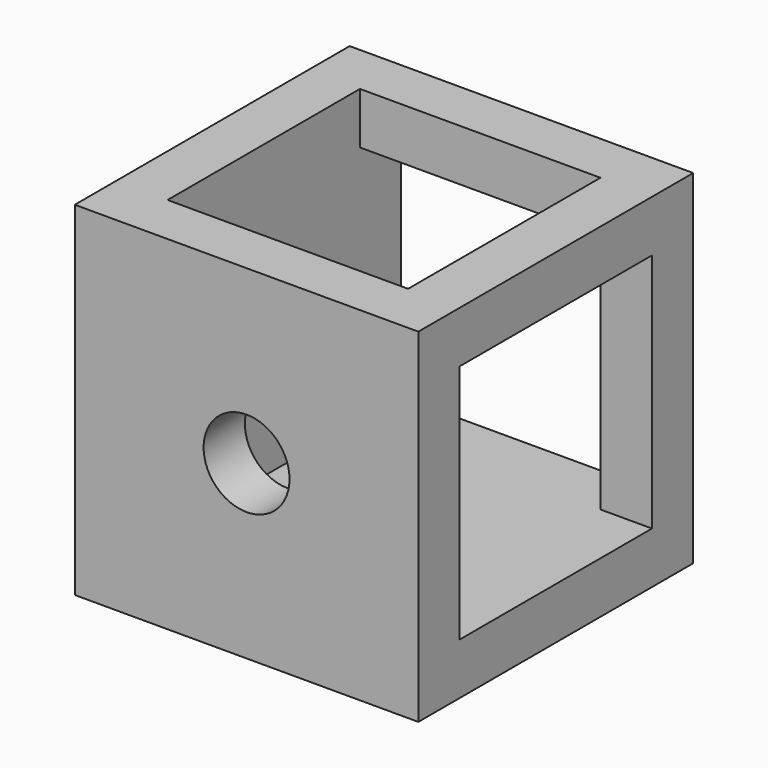
from build123d import *

# Parameters (mm, degrees)
SKETCH040_W     = 20
SKETCH040_H     = 20
PAD016_DEPTH    = 10
SKETCH041_R     = 2.5
HOLE012_DEPTH   = 25
SKETCH042_R     = 2.5
HOLE013_DEPTH   = 25
SKETCH043_R     = 2.5
HOLE014_DEPTH   = 25
SKETCH044_W     = 14
SKETCH044_H     = 14
POCKET012_DEPTH = 17
SKETCH045_W     = 14
SKETCH045_H     = 14
POCKET013_DEPTH = 17
SKETCH046_W     = 14
SKETCH046_H     = 14
POCKET014_DEPTH = 17


with BuildPart() as part:
    # Sketch040 → Pad016 (new body, symmetric)
    with BuildSketch(Plane.XZ):
        Rectangle(SKETCH040_W, SKETCH040_H)
    extrude(amount=PAD016_DEPTH, both=True)

    # Sketch041 (on Face1 of Pad016) → Hole012 (cut)
    with BuildSketch(Plane(origin=(0, 0, 10), x_dir=(-1, 0, 0), z_dir=(0, 0, 1))):
        Circle(SKETCH041_R)
    extrude(amount=-HOLE012_DEPTH, mode=Mode.SUBTRACT)

    # Sketch042 (on Face2 of Hole012) → Hole013 (cut)
    with BuildSketch(Plane(origin=(10, 0, 0), x_dir=(0, 0, 1), z_dir=(1, 0, 0))):
        Circle(SKETCH042_R)
    extrude(amount=-HOLE013_DEPTH, mode=Mode.SUBTRACT)

    # Sketch043 (on Face3 of Hole012) → Hole014 (cut)
    with BuildSketch(Plane(origin=(0, 10, 0), x_dir=(1, 0, 0), z_dir=(0, 1, 0))):
        Circle(SKETCH043_R)
    extrude(amount=-HOLE014_DEPTH, mode=Mode.SUBTRACT)

    # Sketch044 (on Face2 of Hole014) → Pocket012 (cut)
    with BuildSketch(Plane(origin=(10, 0, 0), x_dir=(0, 0, 1), z_dir=(1, 0, 0))):
        Rectangle(SKETCH044_W, SKETCH044_H)
    extrude(amount=-POCKET012_DEPTH, mode=Mode.SUBTRACT)

    # Sketch045 (on Face3 of Pocket012) → Pocket013 (cut)
    with BuildSketch(Plane(origin=(0, 10, 0), x_dir=(1, 0, 0), z_dir=(0, 1, 0))):
        Rectangle(SKETCH045_W, SKETCH045_H)
    extrude(amount=-POCKET013_DEPTH, mode=Mode.SUBTRACT)

    # Sketch046 (on Face1 of Pocket013) → Pocket014 (cut)
    with BuildSketch(Plane(origin=(0, 0, 10), x_dir=(-1, 0, 0), z_dir=(0, 0, 1))):
        Rectangle(SKETCH046_W, SKETCH046_H)
    extrude(amount=-POCKET014_DEPTH, mode=Mode.SUBTRACT)


solid = part.part
